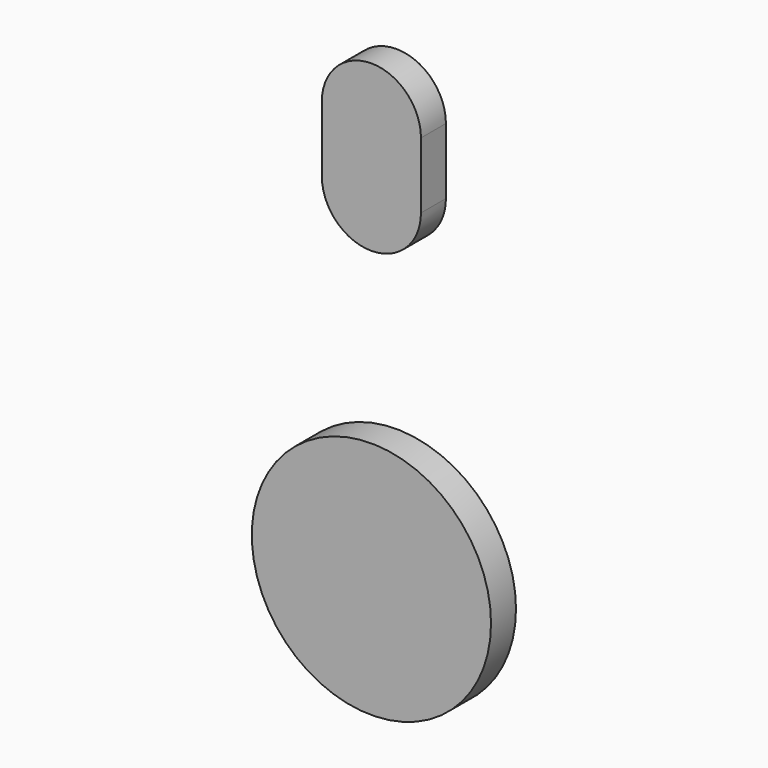
from build123d import *

# Parameters (mm, degrees)
F0_R     = 11.5
F1_DEPTH = 3
F3_DEPTH = 3.001
F4_R     = 1.25
F5_DEPTH = 3.001


with BuildPart() as f1:
    # F0 (on Front) → F1 (new body)
    with BuildSketch(Plane.XZ):
        Circle(F0_R)
        with BuildLine():
            Line((-4.7625, 38.9001), (-4.7625, 32.5501))
            ThreePointArc((-4.7625, 32.5501), (0, 27.7876), (4.7625, 32.5501))
            Line((4.7625, 32.5501), (4.7625, 38.9001))
            ThreePointArc((4.7625, 38.9001), (0, 43.6626), (-4.7625, 38.9001))
        make_face()
    extrude(amount=F1_DEPTH)

    # F2 (on face) → F3 (cut, through all)
    with BuildSketch(Plane.XZ.offset(3)):
        with BuildLine():
            Line((-10.9125, 32.5501), (-10.9125, 38.4502))
            ThreePointArc((-10.9125, 38.4502), (-12.5, 40.0377), (-14.0875, 38.4502))
            Line((-14.0875, 38.4502), (-14.0875, 32.5501))
            ThreePointArc((-14.0875, 32.5501), (-12.5, 30.9626), (-10.9125, 32.5501))
        make_face()
        with BuildLine():
            ThreePointArc((14.0875, 38.4502), (12.5, 40.0377), (10.9125, 38.4502))
            Line((10.9125, 38.4502), (10.9125, 32.5501))
            ThreePointArc((10.9125, 32.5501), (12.5, 30.9626), (14.0875, 32.5501))
            Line((14.0875, 32.5501), (14.0875, 38.4502))
        make_face()
    extrude(amount=-F3_DEPTH, mode=Mode.SUBTRACT)

    # F4 (on face) → F5 (cut, through all)
    with BuildSketch(Plane.XZ.offset(3)):
        with Locations((0, 15)):
            Circle(F4_R)
        with Locations((-24.5, -15)):
            Circle(F4_R)
        with Locations((24.5, -15)):
            Circle(F4_R)
    extrude(amount=-F5_DEPTH, mode=Mode.SUBTRACT)


solid = f1.part
